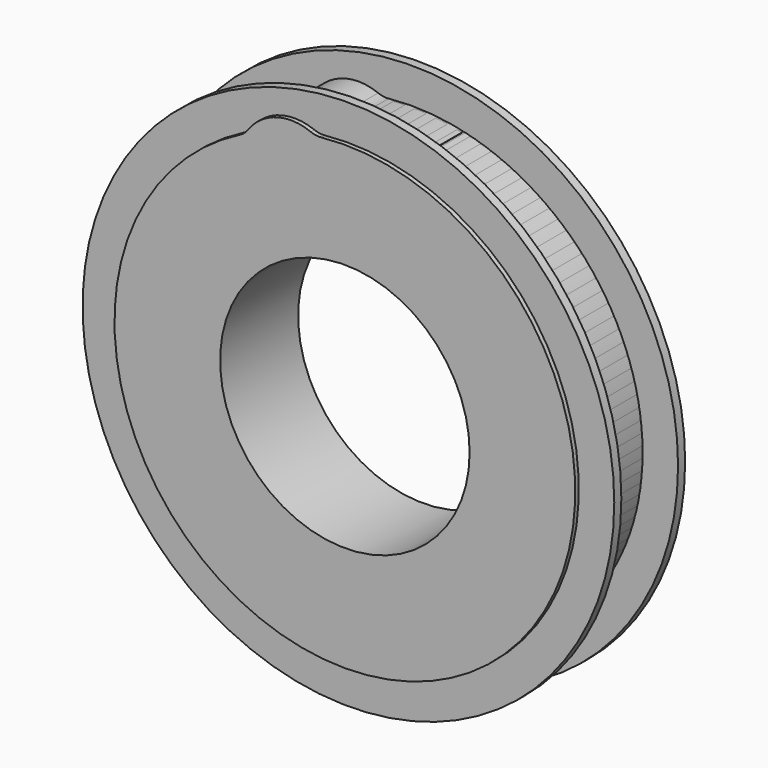
from build123d import *

# Parameters (mm, degrees)
F0_R      = 76.2
F0_R_2    = 63.5
F1_DEPTH  = 12.7
F3_T      = -2.54
F2_W      = 15.24
F2_H      = 20.32
F4_DEPTH  = 66.04
F6_DEPTH  = 9.525
F8_DEPTH  = 12.7
F9_R      = 35.7529089969
F10_DEPTH = 13.97


with BuildPart() as f1:
    # F0 (on Front) → F1 (new body, symmetric)
    with BuildSketch(Plane.XZ):
        Circle(F0_R)
        Circle(F0_R_2, mode=Mode.SUBTRACT)
    extrude(amount=F1_DEPTH, both=True)

    # F3
    f3_openings = [f1.faces().sort_by_distance(p)[0] for p in [
        (-76.2, 0, 0),
    ]]
    offset(amount=F3_T, openings=f3_openings)

    # F2 (on Top) → F4 (cut, symmetric)
    with BuildSketch(Plane.XY):
        with Locations((-7.62, 0)):
            Rectangle(F2_W, F2_H)
        with Locations((7.62, 0)):
            Rectangle(F2_W, F2_H)
    extrude(amount=F4_DEPTH, both=True, mode=Mode.SUBTRACT)


with BuildPart() as f6:
    # F5 (on Front) → F6 (new body, symmetric)
    with BuildSketch(Plane.XZ):
        with BuildLine():
            ThreePointArc((-14.6804592455, 61.7797225337), (0.0322033107, 63.4999918342), (14.7431134689, 61.7648006978))
            Line((14.7431134689, 61.7648006978), (14.7431134689, 64.3733035135))
            ThreePointArc((14.7431134689, 64.3733035135), (0.0321346281, 66.0399921818), (-14.6804592455, 64.3876208315))
            Line((-14.6804592455, 64.3876208315), (-14.6804592455, 61.7797225337))
        make_face()
    extrude(amount=F6_DEPTH, both=True)


with BuildPart() as f6b:
    # F5 (on Front) → F6, piece 2 (new body, symmetric)
    with BuildSketch(Plane.XZ):
        with BuildLine():
            Line((-14.9617508265, -61.7122031061), (-14.9617508265, -64.3228389626))
            ThreePointArc((-14.9617508265, -64.3228389626), (-0.0652215525, -66.0399677934), (14.834670357, -64.3522661248))
            Line((14.834670357, -64.3522661248), (14.834670357, -61.7428745314))
            ThreePointArc((14.834670357, -61.7428745314), (-0.0653647116, -63.4999663579), (-14.9617508265, -61.7122031061))
        make_face()
    extrude(amount=F6_DEPTH, both=True)


with BuildPart() as f8:
    # F7 (on Front) → F8 (new body, symmetric)
    with BuildSketch(Plane.XZ):
        with BuildLine():
            ThreePointArc((-6.35, -60.6283687724), (-15.575286476, -58.9366783183), (-24.431876042, -55.8498436262))
            Line((-24.431876042, -55.8498436262), (-30.2166339444, -55.8498436262))
            ThreePointArc((-30.2166339444, -55.8498436262), (-18.6726647382, -60.6925167675), (-6.4029763415, -63.1763554977))
            Line((-6.4029763415, -63.1763554977), (-6.35, -63.1315240057))
            Line((-6.35, -63.1315240057), (-6.35, -60.6283687724))
        make_face()
    extrude(amount=F8_DEPTH, both=True)


with BuildPart() as f8b:
    # F7 (on Front) → F8, piece 2 (new body, symmetric)
    with BuildSketch(Plane.XZ):
        with BuildLine():
            ThreePointArc((-23.1361730152, 56.3989281654), (-14.8939800501, 59.1125279299), (-6.35, 60.6283687724))
            Line((-6.35, 60.6283687724), (-6.35, 63.1315240057))
            Line((-6.35, 63.1315240057), (-6.4029763415, 63.1763554977))
            ThreePointArc((-6.4029763415, 63.1763554977), (-18.1108167509, 60.8625362322), (-29.1789462077, 56.3989281654))
            Line((-29.1789462077, 56.3989281654), (-23.1361730152, 56.3989281654))
        make_face()
        with BuildLine():
            ThreePointArc((-24.431876042, 55.8498436262), (-23.7856090154, 56.1281248909), (-23.1361730152, 56.3989281654))
            Line((-23.1361730152, 56.3989281654), (-29.1789462077, 56.3989281654))
            ThreePointArc((-29.1789462077, 56.3989281654), (-29.6990590568, 56.1267840798), (-30.2166339444, 55.8498436262))
            Line((-30.2166339444, 55.8498436262), (-24.431876042, 55.8498436262))
        make_face()
    extrude(amount=F8_DEPTH, both=True)


with BuildPart() as f8c:
    # F7 (on Front) → F8, piece 3 (new body, symmetric)
    with BuildSketch(Plane.XZ):
        with BuildLine():
            Line((6.4029763415, 63.1763554977), (6.35, 63.1315240057))
            Line((6.35, 63.1315240057), (6.35, 60.6283687724))
            ThreePointArc((6.35, 60.6283687724), (14.8939800501, 59.1125279299), (23.1361730152, 56.3989281654))
            Line((23.1361730152, 56.3989281654), (29.1789462077, 56.3989281654))
            ThreePointArc((29.1789462077, 56.3989281654), (18.1108167509, 60.8625362322), (6.4029763415, 63.1763554977))
        make_face()
        with BuildLine():
            Line((29.1789462077, 56.3989281654), (23.1361730152, 56.3989281654))
            ThreePointArc((23.1361730152, 56.3989281654), (23.7856090154, 56.1281248909), (24.431876042, 55.8498436262))
            Line((24.431876042, 55.8498436262), (30.2166339444, 55.8498436262))
            ThreePointArc((30.2166339444, 55.8498436262), (29.6990590568, 56.1267840798), (29.1789462077, 56.3989281654))
        make_face()
    extrude(amount=F8_DEPTH, both=True)


with BuildPart() as f8d:
    # F7 (on Front) → F8, piece 4 (new body, symmetric)
    with BuildSketch(Plane.XZ):
        with BuildLine():
            Line((6.35, -60.6283687724), (6.35, -63.1315240057))
            Line((6.35, -63.1315240057), (6.4029763415, -63.1763554977))
            ThreePointArc((6.4029763415, -63.1763554977), (18.6726647382, -60.6925167675), (30.2166339444, -55.8498436262))
            Line((30.2166339444, -55.8498436262), (24.431876042, -55.8498436262))
            ThreePointArc((24.431876042, -55.8498436262), (15.575286476, -58.9366783183), (6.35, -60.6283687724))
        make_face()
    extrude(amount=F8_DEPTH, both=True)


with BuildPart() as f10:
    # F9 (on Front) → F10 (new body, symmetric)
    with BuildSketch(Plane.XZ):
        with BuildLine():
            ThreePointArc((-27.7623035615, 60.7972821317), (-28.791005851, 59.6589857347), (-30.0626969544, 58.800644995))
            ThreePointArc((-30.0626969544, 58.800644995), (18.7271235897, -63.3291121212), (-6.7517421176, 65.6939538951))
            ThreePointArc((-6.7517421176, 65.6939538951), (-8.2857320593, 65.7226235101), (-9.7680700784, 66.1183773288))
            ThreePointArc((-9.7680700784, 66.1183773288), (-19.6906568062, 66.5874717303), (-27.7623035615, 60.7972821317))
        make_face()
        Circle(F9_R, mode=Mode.SUBTRACT)
    extrude(amount=F10_DEPTH, both=True)


solid = Compound([f1.part, f6.part, f6b.part, f8.part, f8b.part, f8c.part, f8d.part, f10.part])
